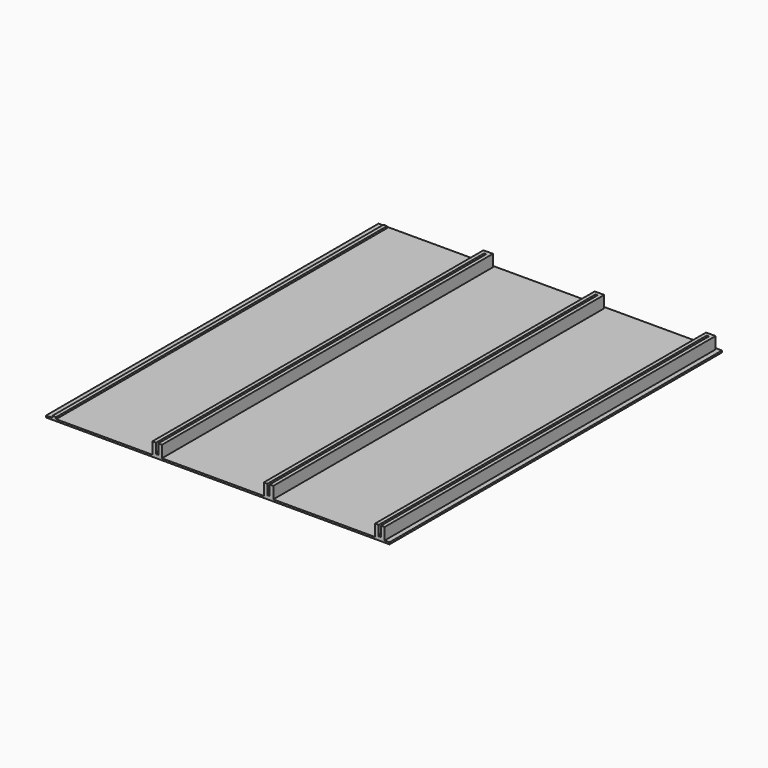
from build123d import *

# Parameters (mm, degrees)
F0_W     = 5.2
F0_H     = 226.71
F1_DEPTH = 2
F3_DEPTH = 4.5
F4_W     = 1.2
F4_H     = 2.1
F5_DEPTH = 25
F6_W     = 185.5
F6_H     = 227.71
F6_W_2   = 2.7
F7_DEPTH = 1
F8_W     = 2
F8_H     = 226.71
F9_DEPTH = 1
F10_SIZE = 1


with BuildPart() as f1:
    # F0 (on Top) → F1 (new body)
    with BuildSketch(Plane.XY):
        with Locations((2.6, 113.355)):
            Rectangle(F0_W, F0_H)
        with Locations((63.6, 113.355)):
            Rectangle(F0_W, F0_H)
        with Locations((124.6, 113.355)):
            Rectangle(F0_W, F0_H)
    extrude(amount=F1_DEPTH)

    # F2 (on face) → F3 (join)
    with BuildSketch(Plane.XY.offset(2)):
        Polygon((0, 226.71), (0, 0), (2, 0), (2, 224.71), (3.2, 224.71), (3.2, 0), (5.2, 0), (5.2, 226.71), align=None)
        Polygon((61, 226.71), (61, 0), (63, 0), (63, 224.71), (64.2, 224.71), (64.2, 0), (66.2, 0), (66.2, 226.71), align=None)
        Polygon((122, 226.71), (122, 0), (124, 0), (124, 224.71), (125.2, 224.71), (125.2, 0), (127.2, 0), (127.2, 226.71), align=None)
    extrude(amount=F3_DEPTH)

    # F4 (on face) → F5 (cut)
    with BuildSketch(Plane.XY.offset(2)):
        with Locations((2.6, 2.95)):
            Rectangle(F4_W, F4_H)
        with Locations((63.6, 2.95)):
            Rectangle(F4_W, F4_H)
        with Locations((124.6, 2.95)):
            Rectangle(F4_W, F4_H)
    extrude(amount=-F5_DEPTH, mode=Mode.SUBTRACT)

    # F6 (on Top) → F7 (join)
    with BuildSketch(Plane.XY):
        with Locations((34.45, 113.855)):
            Rectangle(F6_W, F6_H)
        with Locations((128.55, 113.855)):
            Rectangle(F6_W_2, F6_H)
    extrude(amount=-F7_DEPTH)

    # F8 (on face) → F9 (join)
    with BuildSketch(Plane.XY):
        with Locations((-53.8, 113.355)):
            Rectangle(F8_W, F8_H)
    extrude(amount=F9_DEPTH)

    # F10
    f10_edges = [f1.edges().sort_by_distance(p)[0] for p in [
        (2.6, 0, 2),
        (63.6, 0, 2),
        (124.6, 0, 2),
    ]]
    chamfer(f10_edges, length=F10_SIZE)


solid = f1.part
